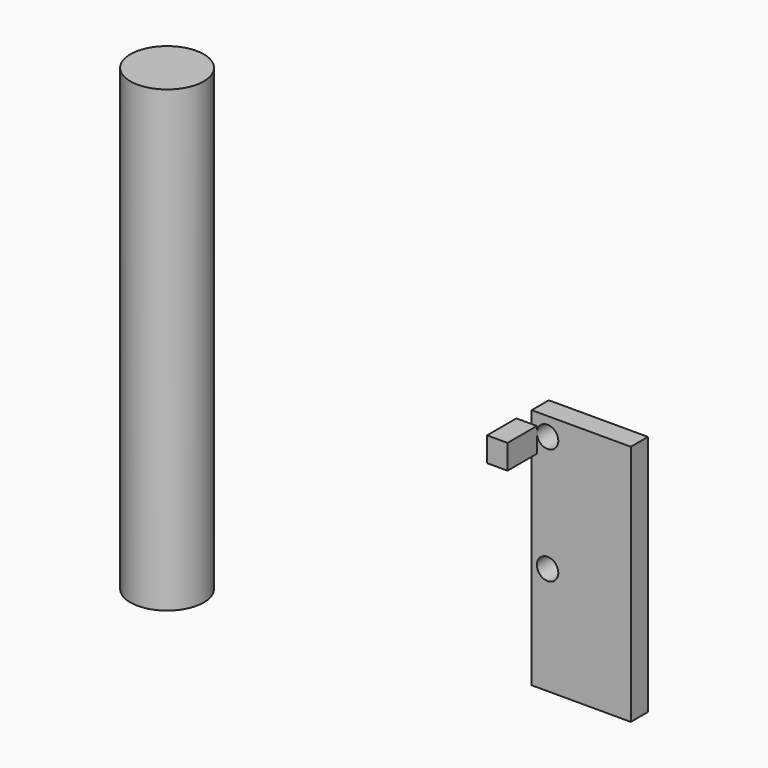
from build123d import *

# Parameters (mm, degrees)
F0_R     = 6
F1_DEPTH = 75
F2_W     = 16.2
F2_H     = 39.6
F2_R     = 1.75
F3_DEPTH = 3.5
F4_W     = 3.35
F4_H     = 4
F5_DEPTH = 6


with BuildPart() as f1:
    # F0 (on Top) → F1 (new body)
    with BuildSketch(Plane.XY):
        with Locations((-69.186163, -8.270208)):
            Circle(F0_R)
    extrude(amount=F1_DEPTH)


with BuildPart() as f3:
    # F2 (on Front) → F3 (new body)
    with BuildSketch(Plane.XZ):
        with Locations((-8.1, 19.8)):
            Rectangle(F2_W, F2_H)
        with Locations((-13.6, 17.6)):
            Circle(F2_R, mode=Mode.SUBTRACT)
        with Locations((-13.6, 36.6)):
            Circle(F2_R, mode=Mode.SUBTRACT)
    extrude(amount=-F3_DEPTH)

    # F4 (on Front) → F5 (join)
    with BuildSketch(Plane.XZ):
        with Locations((-17.025, 35.6)):
            Rectangle(F4_W, F4_H)
    extrude(amount=F5_DEPTH)


solid = Compound([f1.part, f3.part])
